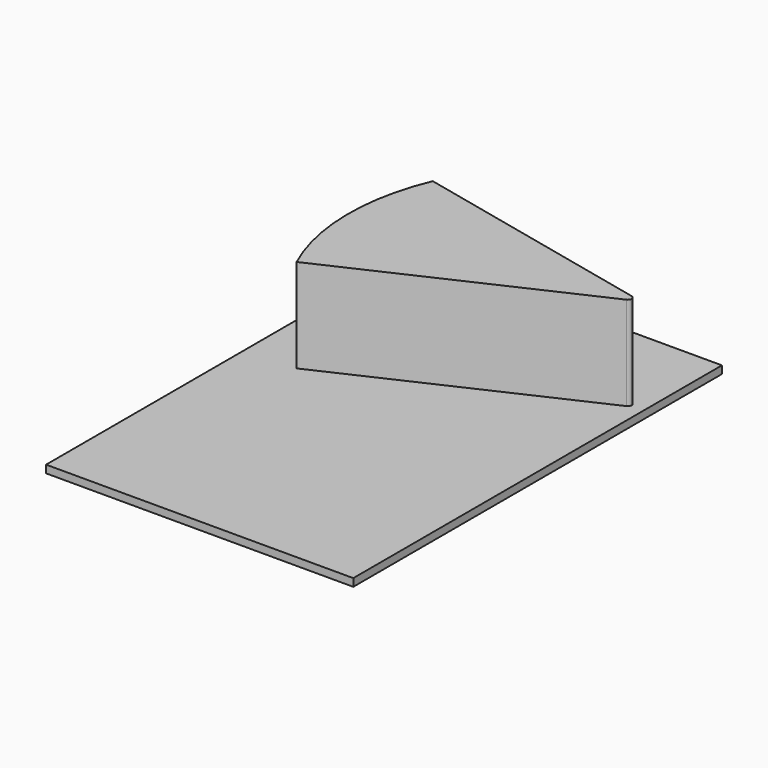
from build123d import *

# Parameters (mm, degrees)
F0_W     = 4000
F0_H     = 6000
F1_DEPTH = 100
F3_DEPTH = 1220


with BuildPart() as f1:
    # F0 (on Top) → F1 (new body)
    with BuildSketch(Plane.XY):
        with Locations((0, -3000)):
            Rectangle(F0_W, F0_H)
    extrude(amount=-F1_DEPTH)


with BuildPart() as f3:
    # F2 (on Top) → F3 (new body)
    with BuildSketch(Plane.XY):
        with BuildLine():
            Line((1794.350326, -1212.431682), (-1364.931464, -499.556303))
            ThreePointArc((-1364.931464, -499.556303), (-1587.521151, -1629.967329), (-1335.282456, -2754.134087))
            Line((-1335.282456, -2754.134087), (1804.279734, -1306.61168))
            ThreePointArc((1804.279734, -1306.61168), (1833.069194, -1255.962975), (1794.350326, -1212.431682))
        make_face()
    extrude(amount=F3_DEPTH)


solid = Compound([f1.part, f3.part])
